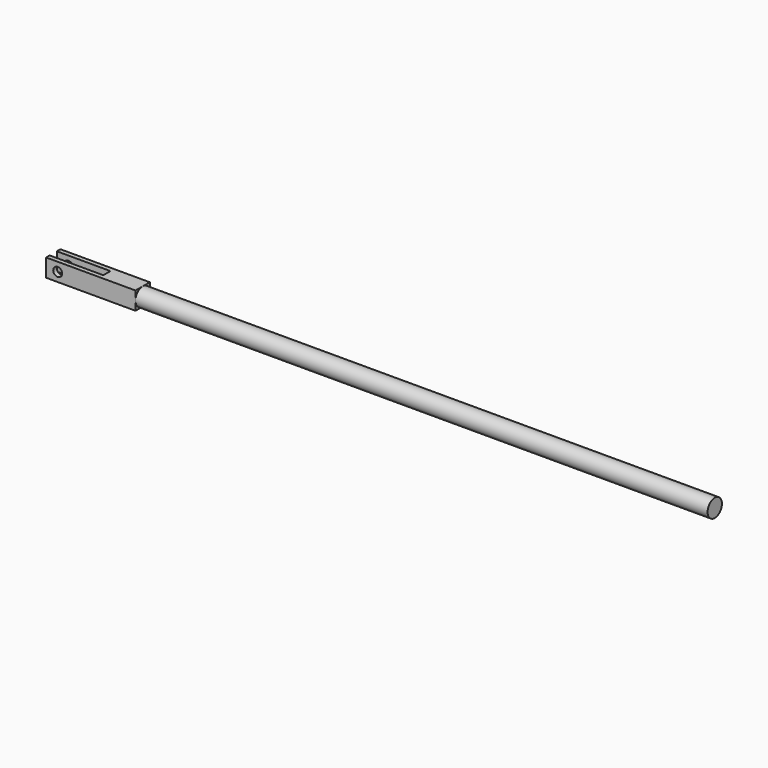
from build123d import *

# Parameters (mm, degrees)
F0_W     = 203.2
F0_H     = 3.175
F2_W     = 6.35
F2_H     = 6.35
F3_DEPTH = 12.7
F4_W     = 1.5875
F4_H     = 6.35
F5_DEPTH = 19.05
F6_R     = 1.5875
F7_DEPTH = 25.4


with BuildPart() as f1:
    # F0 (on Front) → F1 (revolve)
    with BuildSketch(Plane.XZ):
        with Locations((0, 1.5875)):
            Rectangle(F0_W, F0_H)
    revolve(axis=Axis((0, 0, 0), (1, 0, 0)))

    # F2 (on face) → F3 (join)
    with BuildSketch(Plane(origin=(-101.6, 0, 0), x_dir=(0, -1, 0), z_dir=(-1, 0, 0))):
        Rectangle(F2_W, F2_H)
    extrude(amount=F3_DEPTH)

    # F4 (on face) → F5 (join)
    with BuildSketch(Plane(origin=(-114.3, 0, 0), x_dir=(0, -1, 0), z_dir=(-1, 0, 0))):
        with Locations((2.38125, 0)):
            Rectangle(F4_W, F4_H)
        with Locations((-2.38125, 0)):
            Rectangle(F4_W, F4_H)
    extrude(amount=F5_DEPTH)

    # F6 (on face) → F7 (cut)
    with BuildSketch(Plane.XZ.offset(3.175)):
        with Locations((-129.2225, 0)):
            Circle(F6_R)
    extrude(amount=-F7_DEPTH, mode=Mode.SUBTRACT)


solid = f1.part
